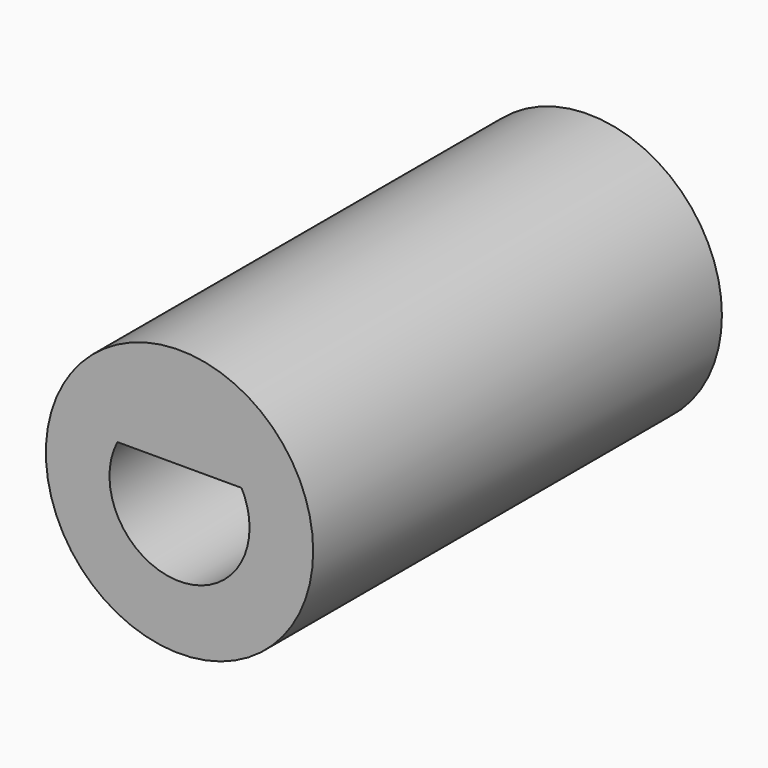
from build123d import *

# Parameters (mm, degrees)
F0_R     = 25.447703
F1_DEPTH = 97.282


with BuildPart() as f1:
    # F0 (on Front) → F1 (new body)
    with BuildSketch(Plane.XZ):
        with Locations((-37.814602, 24.962375)):
            Circle(F0_R)
        with BuildLine():
            ThreePointArc((-25.996309, 31.141282), (-24.863528, 28.14367), (-24.478525, 24.962375))
            ThreePointArc((-24.478525, 24.962375), (-40.995898, 12.011301), (-49.632896, 31.141282))
            ThreePointArc((-49.632896, 31.141282), (-37.814602, 38.298452), (-25.996309, 31.141282))
        make_face(mode=Mode.SUBTRACT)
        with BuildLine():
            Line((-49.632896, 31.141282), (-25.996309, 31.141282))
            ThreePointArc((-25.996309, 31.141282), (-37.814602, 38.298452), (-49.632896, 31.141282))
        make_face()
    extrude(amount=F1_DEPTH)


solid = f1.part
